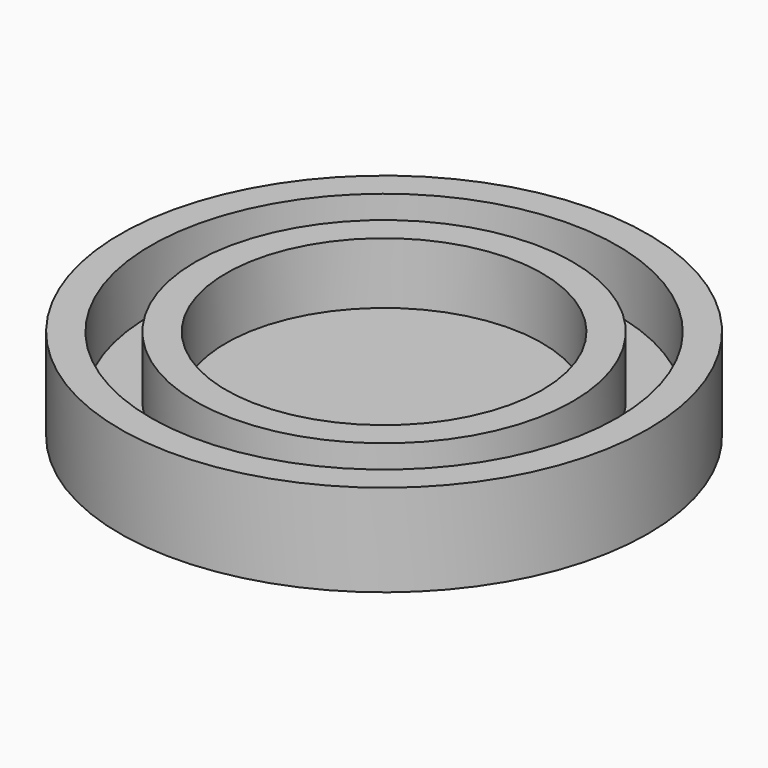
from build123d import *

# Parameters (mm, degrees)
F0_R     = 21.844
F1_DEPTH = 2.54
F2_R     = 21.844
F2_R_2   = 19.304
F3_R     = 15.621
F3_R_2   = 13.081
F4_DEPTH = 5.08


with BuildPart() as f1:
    # F0 (on Top) → F1 (new body)
    with BuildSketch(Plane.XY):
        Circle(F0_R)
    extrude(amount=F1_DEPTH)

    # F2 (on face) + F3 (on face) → F4 (join)
    with BuildSketch(Plane.XY.offset(2.54)):
        Circle(F2_R)
        Circle(F2_R_2, mode=Mode.SUBTRACT)
    with BuildSketch(Plane.XY.offset(2.54)):
        Circle(F3_R)
        Circle(F3_R_2, mode=Mode.SUBTRACT)
    extrude(amount=F4_DEPTH)


solid = f1.part
